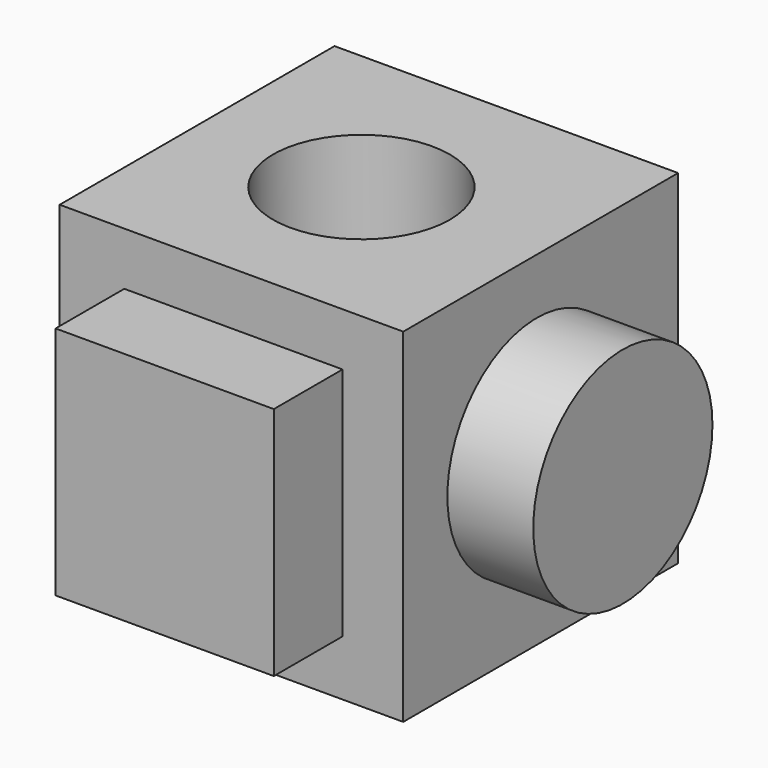
from build123d import *

# Parameters (mm, degrees)
F0_W     = 50.8
F0_H     = 50.8
F1_DEPTH = 50.8
F2_R     = 13.0683
F3_DEPTH = 50.8
F4_R     = 16.558312
F5_DEPTH = 12.7
F6_W     = 32.271338
F6_H     = 34.753747
F7_DEPTH = 12.7


with BuildPart() as f1:
    # F0 (on Front) → F1 (new body)
    with BuildSketch(Plane.XZ):
        with Locations((-25.4, 25.4)):
            Rectangle(F0_W, F0_H)
    extrude(amount=F1_DEPTH)

    # F2 (on face) → F3 (cut)
    with BuildSketch(Plane.XY.offset(50.8)):
        with Locations((-26.351742, -25.587924)):
            Circle(F2_R)
    extrude(amount=-F3_DEPTH, mode=Mode.SUBTRACT)

    # F4 (on face) → F5 (join)
    with BuildSketch(Plane.YZ):
        with Locations((-26.086254, 26.009806)):
            Circle(F4_R)
    extrude(amount=F5_DEPTH)

    # F6 (on face) → F7 (join)
    with BuildSketch(Plane.XZ.offset(50.8)):
        with Locations((-25.110537, 25.587923)):
            Rectangle(F6_W, F6_H)
    extrude(amount=F7_DEPTH)


solid = f1.part
